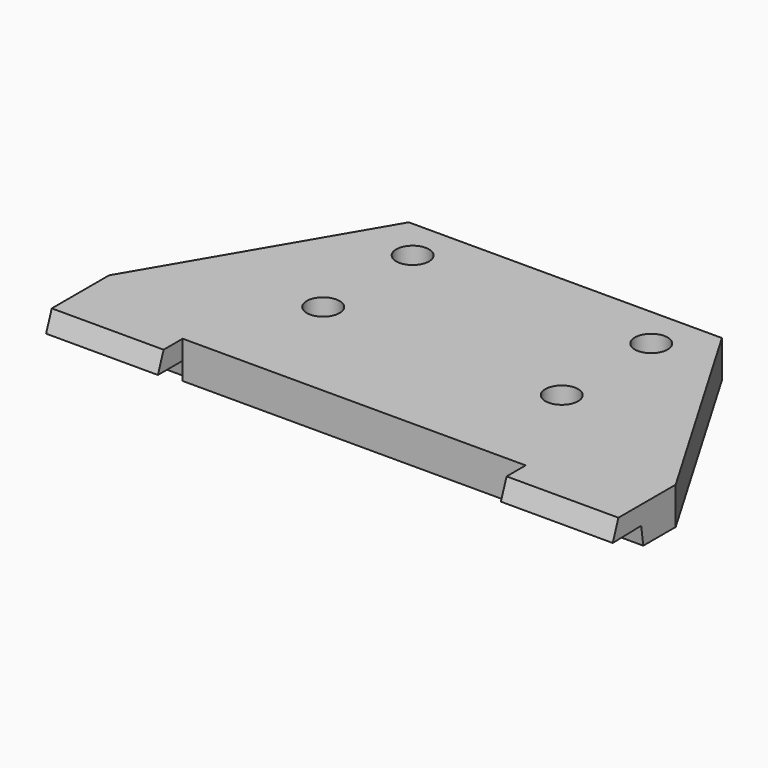
from build123d import *

# Parameters (mm, degrees)
F1_DEPTH      = 12.5
F1_DEPTH_BACK = 12.5
F3_DEPTH      = 190
F3_DEPTH_BACK = 190
F5_DEPTH      = 75
F7_DEPTH      = 75
F8_R          = 11
F9_DEPTH      = 25


with BuildPart() as f1:
    # F0 (on Top) → F1 (new body, two sides)
    with BuildSketch(Plane.XY) as f1_sk:
        Polygon((105, 101), (-105, 101), (-190, -44), (-190, -101), (-115, -101), (-115, -76), (115, -76), (115, -101), (190, -101), (190, -44), align=None)
    extrude(amount=F1_DEPTH)
    extrude(f1_sk.sketch, amount=-F1_DEPTH_BACK)

    # F2 (on Right) → F3 (cut, two sides)
    with BuildSketch(Plane.YZ) as f3_sk:
        Polygon((-92, 12.5), (-101, 12.5), (-101.165957, -12.499449), align=None)
    extrude(amount=F3_DEPTH, mode=Mode.SUBTRACT)
    extrude(f3_sk.sketch, amount=-F3_DEPTH_BACK, mode=Mode.SUBTRACT)

    # F4 (on face) → F5 (cut, through all)
    with BuildSketch(Plane.YZ.offset(-115)):
        Polygon((-72.852649, -0.5), (-96.766403, -0.5), (-101.166159, -12.5), (-71.166159, -12.5), align=None)
    extrude(amount=-F5_DEPTH, mode=Mode.SUBTRACT)

    # F6 (on face) → F7 (cut, through all)
    with BuildSketch(Plane(origin=(115, 0, 0), x_dir=(0, -1, 0), z_dir=(-1, 0, 0))):
        Polygon((101.166159, -12.5), (96.766403, -0.5), (72.92292, 0), (71.166159, -12.5), align=None)
    extrude(amount=-F7_DEPTH, mode=Mode.SUBTRACT)

    # F8 (on face) → F9 (cut)
    with BuildSketch(Plane(origin=(0, 0, -12.5), x_dir=(1, 0, 0), z_dir=(0, 0, -1))):
        with Locations((-80, -73)):
            Circle(F8_R)
        with Locations((-80, 2)):
            Circle(F8_R)
        with Locations((80, -73)):
            Circle(F8_R)
        with Locations((80, 2)):
            Circle(F8_R)
    extrude(amount=-F9_DEPTH, mode=Mode.SUBTRACT)


solid = f1.part
